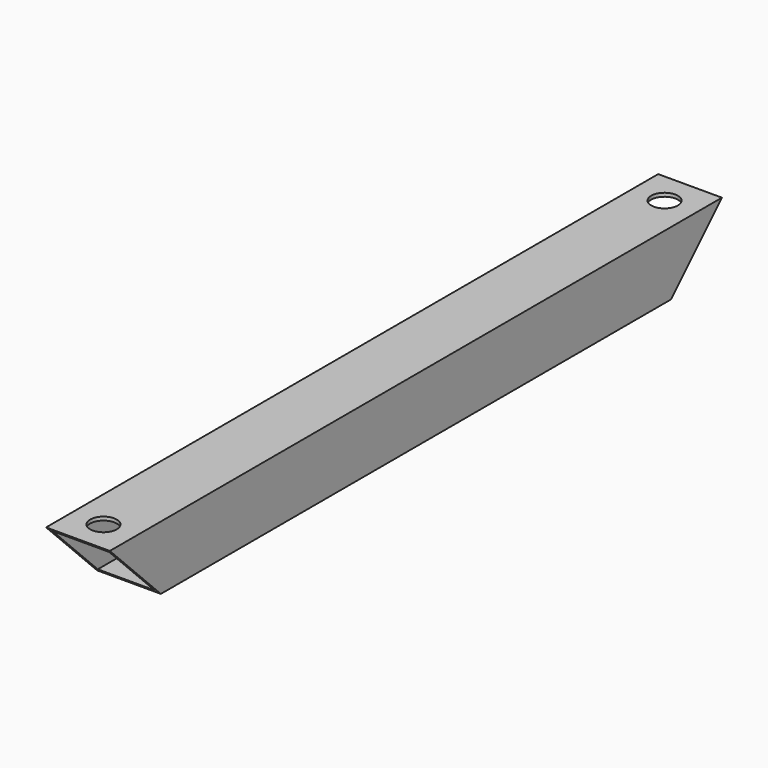
from build123d import *

# Parameters (mm, degrees)
F0_W     = 38.1
F0_H     = 38.1
F0_W_2   = 33.8836
F0_H_2   = 33.8836
F1_DEPTH = 228.6
F3_DEPTH = 38.101
F4_R     = 7.9375
F5_DEPTH = 2.1082


with BuildPart() as f1:
    # F0 (on Front) → F1 (new body, symmetric)
    with BuildSketch(Plane.XZ):
        Rectangle(F0_W, F0_H)
        Rectangle(F0_W_2, F0_H_2, mode=Mode.SUBTRACT)
    extrude(amount=F1_DEPTH, both=True)

    # F2 (on face) → F3 (cut, through all)
    with BuildSketch(Plane.YZ.offset(19.05)):
        Polygon((-190.5, -19.05), (-228.6, 19.05), (-228.6, -19.05), align=None)
        Polygon((228.6, -19.05), (228.6, 19.05), (190.5, -19.05), align=None)
    extrude(amount=-F3_DEPTH, mode=Mode.SUBTRACT)

    # F4 (on face) → F5 (cut, through all)
    with BuildSketch(Plane.XY.offset(19.05)):
        with Locations((0, 209.55)):
            Circle(F4_R)
        with Locations((0, -209.55)):
            Circle(F4_R)
    extrude(amount=-F5_DEPTH, mode=Mode.SUBTRACT)


solid = f1.part
